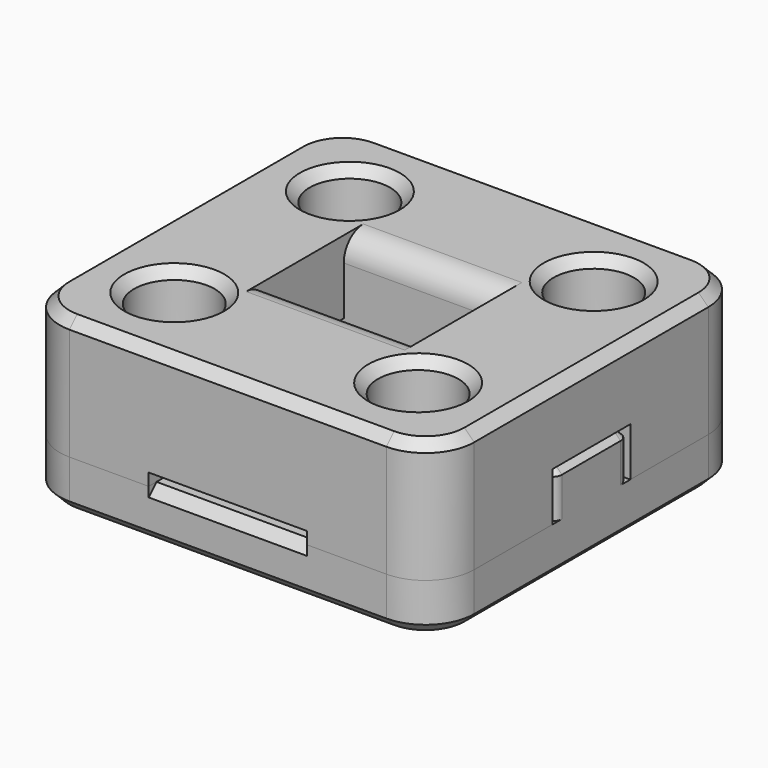
from build123d import *

# Parameters (mm, degrees)
SKETCH_W        = 17
SKETCH_H        = 16
SKETCH_R        = 1.65
PAD_DEPTH       = 2
SKETCH001_W     = 5.25
SKETCH001_H     = 3.8
PAD001_DEPTH    = 2
FILLET_R        = 2
FILLET001_R     = 0.4
CHAMFER_SIZE    = 0.4
POCKET006_DEPTH = 3.25
CHAMFER002_SIZE = 0.4
SKETCH002_W     = 17
SKETCH002_H     = 16
SKETCH002_R     = 1.65
PAD002_DEPTH    = 5
SKETCH003_W     = 17
SKETCH003_H     = 4
POCKET_DEPTH    = 2
SKETCH004_W     = 6.5
SKETCH004_H     = 4
POCKET001_DEPTH = 5
SKETCH005_W     = 6.5
SKETCH005_H     = 16
POCKET002_DEPTH = 0.5
SKETCH006_W     = 6.5
SKETCH006_H     = 1.2
SKETCH006_H_2   = 6.4
POCKET003_DEPTH = 0.8
FILLET002_R     = 2
FILLET003_R     = 0.5
FILLET004_R     = 1
CHAMFER001_SIZE = 0.4


with BuildPart() as bottom:
    # Sketch → Pad (new body)
    with BuildSketch(Plane.XY):
        Rectangle(SKETCH_W, SKETCH_H)
        with Locations((-5, 4.5)):
            Circle(SKETCH_R, mode=Mode.SUBTRACT)
        with Locations((5, 4.5)):
            Circle(SKETCH_R, mode=Mode.SUBTRACT)
        with Locations((-5, -4.5)):
            Circle(SKETCH_R, mode=Mode.SUBTRACT)
        with Locations((5, -4.5)):
            Circle(SKETCH_R, mode=Mode.SUBTRACT)
    extrude(amount=PAD_DEPTH)

    # Sketch001 (on Face10 of Pad) → Pad001 (join)
    with BuildSketch(Plane.XY.offset(2)):
        with Locations((-5.875, 0)):
            Rectangle(SKETCH001_W, SKETCH001_H)
        with Locations((5.875, 0)):
            Rectangle(SKETCH001_W, SKETCH001_H)
    extrude(amount=PAD001_DEPTH)

    # Fillet
    fillet_edges = [bottom.edges().sort_by_distance(p)[0] for p in [
        (8.5, -8, 1),
        (-8.5, -8, 1),
        (8.5, 8, 1),
        (-8.5, 8, 1),
    ]]
    fillet(fillet_edges, radius=FILLET_R)

    # Fillet001
    fillet001_edges = [bottom.edges().sort_by_distance(p)[0] for p in [
        (8.5, -1.9, 3),
        (8.5, 1.9, 3),
        (-3.25, -1.9, 3),
        (-3.25, 1.9, 3),
        (3.25, 1.9, 3),
        (3.25, -1.9, 3),
        (-8.5, 1.9, 3),
        (-8.5, -1.9, 3),
    ]]
    fillet(fillet001_edges, radius=FILLET001_R)

    # Chamfer
    chamfer_edges = [bottom.edges().sort_by_distance(p)[0] for p in [
        (5.875, 1.9, 4),
        (3.367157, 1.782843, 4),
        (8.382843, 1.782843, 4),
        (3.25, 0, 4),
        (8.5, 0, 4),
        (3.367157, -1.782843, 4),
        (8.382843, -1.782843, 4),
        (5.875, -1.9, 4),
        (-5.875, 1.9, 4),
        (-8.382843, 1.782843, 4),
        (-3.367157, 1.782843, 4),
        (-8.5, 0, 4),
        (-3.25, 0, 4),
        (-8.382843, -1.782843, 4),
        (-3.367157, -1.782843, 4),
        (-5.875, -1.9, 4),
    ]]
    chamfer(chamfer_edges, length=CHAMFER_SIZE)

    # Sketch009 → Pocket006 (cut, symmetric)
    with BuildSketch(Plane.YZ):
        Polygon((-8, 1.6), (-8, 2), (-7.6, 2), align=None)
        Polygon((7.6, 2), (8, 2), (8, 1.6), align=None)
    extrude(amount=POCKET006_DEPTH, both=True, mode=Mode.SUBTRACT)

    # Chamfer002
    chamfer002_edges = [bottom.edges().sort_by_distance(p)[0] for p in [
        (0, 8, 0),
        (-7.914214, 7.414214, 0),
        (7.914214, 7.414214, 0),
        (-8.5, 0, 0),
        (8.5, 0, 0),
        (-7.914214, -7.414214, 0),
        (7.914214, -7.414214, 0),
        (0, -8, 0),
        (3.35, -4.5, 0),
        (-6.65, -4.5, 0),
        (3.35, 4.5, 0),
        (-6.65, 4.5, 0),
    ]]
    chamfer(chamfer002_edges, length=CHAMFER002_SIZE)


with BuildPart() as bottom_1:
    # Body placement: moved
    add(bottom.part.moved(Location((0, 0, -2))))


with BuildPart() as top:
    # Sketch002 → Pad002 (new body)
    with BuildSketch(Plane.XY):
        Rectangle(SKETCH002_W, SKETCH002_H)
        with Locations((-5, 4.5)):
            Circle(SKETCH002_R, mode=Mode.SUBTRACT)
        with Locations((5, 4.5)):
            Circle(SKETCH002_R, mode=Mode.SUBTRACT)
        with Locations((-5, -4.5)):
            Circle(SKETCH002_R, mode=Mode.SUBTRACT)
        with Locations((5, -4.5)):
            Circle(SKETCH002_R, mode=Mode.SUBTRACT)
    extrude(amount=PAD002_DEPTH)

    # Sketch003 (on Face9 of Pad002) → Pocket (cut)
    with BuildSketch(Plane(origin=(0, 0, 0), x_dir=(1, 0, 0), z_dir=(0, 0, -1))):
        Rectangle(SKETCH003_W, SKETCH003_H)
    extrude(amount=-POCKET_DEPTH, mode=Mode.SUBTRACT)

    # Sketch004 (on Face8 of Pocket) → Pocket001 (cut)
    with BuildSketch(Plane(origin=(0, 0, 2), x_dir=(1, 0, 0), z_dir=(0, 0, -1))):
        Rectangle(SKETCH004_W, SKETCH004_H)
    extrude(amount=-POCKET001_DEPTH, mode=Mode.SUBTRACT)

    # Sketch005 (on Face6 of Pocket001) → Pocket002 (cut)
    with BuildSketch(Plane(origin=(0, 0, 0), x_dir=(1, 0, 0), z_dir=(0, 0, -1))):
        Rectangle(SKETCH005_W, SKETCH005_H)
    extrude(amount=-POCKET002_DEPTH, mode=Mode.SUBTRACT)

    # Sketch006 (on Face4 of Pocket002) → Pocket003 (cut)
    with BuildSketch(Plane(origin=(0, 0, 0.5), x_dir=(1, 0, 0), z_dir=(0, 0, -1))):
        with Locations((0, 4.6)):
            Rectangle(SKETCH006_W, SKETCH006_H)
        with Locations((0, 6.6)):
            Rectangle(SKETCH006_W, SKETCH006_H)
        with Locations((0, -4.6)):
            Rectangle(SKETCH006_W, SKETCH006_H)
        with Locations((0, -6.6)):
            Rectangle(SKETCH006_W, SKETCH006_H)
        Rectangle(SKETCH006_W, SKETCH006_H_2)
    extrude(amount=-POCKET003_DEPTH, mode=Mode.SUBTRACT)

    # Fillet002
    fillet002_edges = [top.edges().sort_by_distance(p)[0] for p in [
        (8.5, -8, 2.5),
        (8.5, 8, 2.5),
        (-8.5, 8, 2.5),
        (-8.5, -8, 2.5),
    ]]
    fillet(fillet002_edges, radius=FILLET002_R)

    # Fillet003
    fillet003_edges = [top.edges().sort_by_distance(p)[0] for p in [
        (0, -2, 1.3),
        (0, 2, 1.3),
    ]]
    fillet(fillet003_edges, radius=FILLET003_R)

    # Fillet004
    fillet004_edges = [top.edges().sort_by_distance(p)[0] for p in [
        (0, 2, 5),
        (0, -2, 5),
    ]]
    fillet(fillet004_edges, radius=FILLET004_R)

    # Chamfer001
    chamfer001_edges = [top.edges().sort_by_distance(p)[0] for p in [
        (-8.5, 0, 5),
        (3.35, 4.5, 5),
        (-6.65, 4.5, 5),
        (-6.65, -4.5, 5),
        (3.35, -4.5, 5),
    ]]
    chamfer(chamfer001_edges, length=CHAMFER001_SIZE)


solid = Compound([bottom_1.part, top.part])
